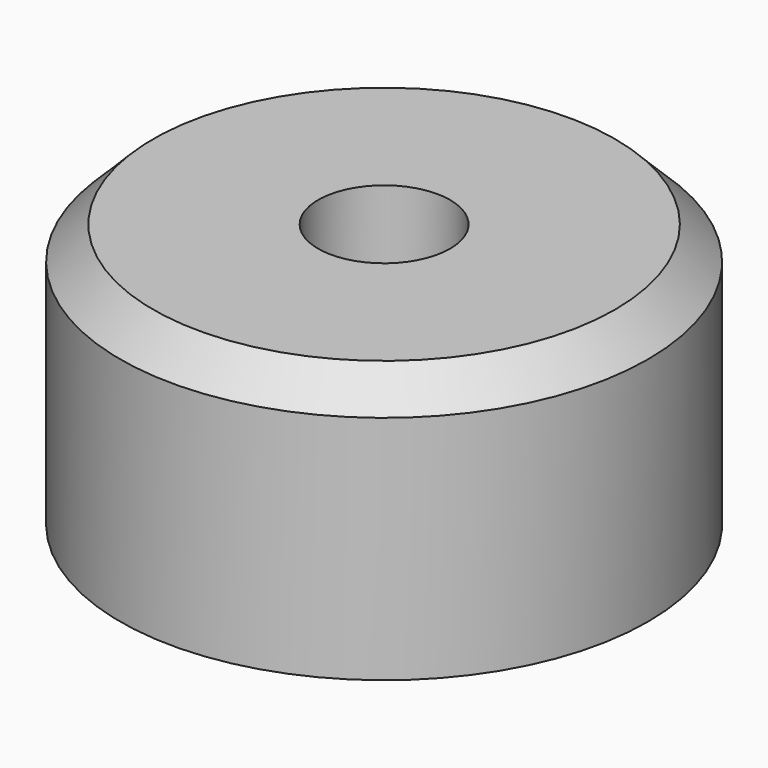
from build123d import *

# Parameters (mm, degrees)
F0_R     = 50.8
F0_R_2   = 12.7
F1_DEPTH = 25.4
F2_SIZE  = 6.35
F3_DEPTH = 25.4


with BuildPart() as f1:
    # F0 (on Top) → F1 (new body)
    with BuildSketch(Plane.XY):
        Circle(F0_R)
        Circle(F0_R_2, mode=Mode.SUBTRACT)
    extrude(amount=F1_DEPTH)

    # F2
    f2_edges = [f1.edges().sort_by_distance(p)[0] for p in [
        (-50.8, 0, 25.4),
    ]]
    chamfer(f2_edges, length=F2_SIZE)

    # F0 (on Top) → F3 (join)
    with BuildSketch(Plane.XY):
        Circle(F0_R)
        Circle(F0_R_2, mode=Mode.SUBTRACT)
    extrude(amount=-F3_DEPTH)


solid = f1.part
